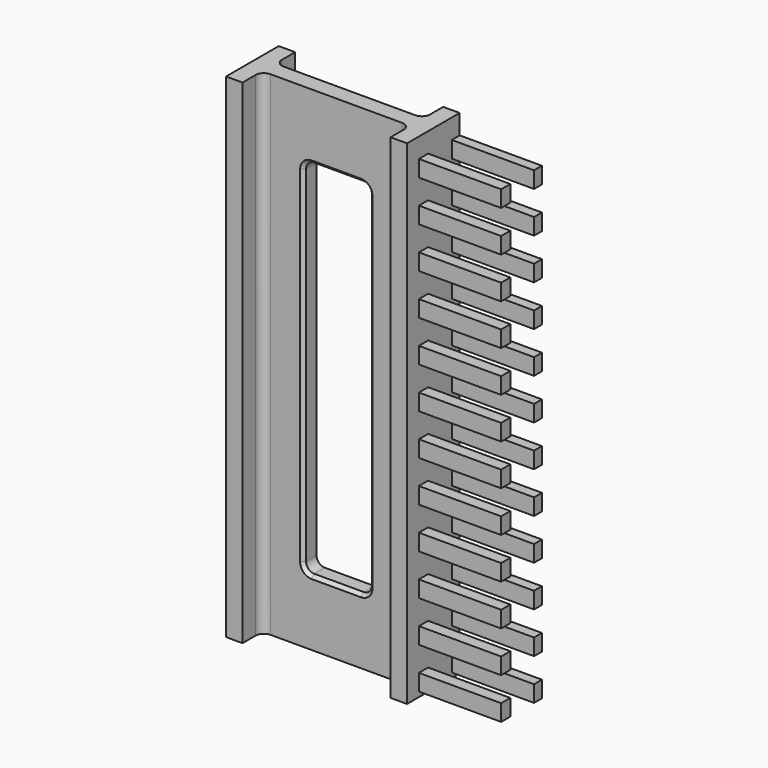
from build123d import *

# Parameters (mm, degrees)
F1_DEPTH = 300
F3_DEPTH = 25
F4_SIZE  = 2
F5_W     = 7
F5_H     = 10
F5_W_2   = 6
F6_DEPTH = 50


with BuildPart() as f1:
    # F0 (on Top) → F1 (new body)
    with BuildSketch(Plane.XY):
        with BuildLine():
            Line((-40, -5), (0, -5))
            Line((0, -5), (40, -5))
            ThreePointArc((40, -5), (43.535534, -6.464466), (45, -10))
            Line((45, -10), (45, -20))
            Line((45, -20), (55, -20))
            Line((55, -20), (55, 20))
            Line((55, 20), (45, 20))
            Line((45, 20), (45, 10))
            ThreePointArc((45, 10), (43.535534, 6.464466), (40, 5))
            Line((40, 5), (0, 5))
            Line((0, 5), (-40, 5))
            ThreePointArc((-40, 5), (-43.535534, 6.464466), (-45, 10))
            Line((-45, 10), (-45, 20))
            Line((-45, 20), (-55, 20))
            Line((-55, 20), (-55, -20))
            Line((-55, -20), (-45, -20))
            Line((-45, -20), (-45, -10))
            ThreePointArc((-45, -10), (-43.535534, -6.464466), (-40, -5))
        make_face()
    extrude(amount=F1_DEPTH)

    # F2 (on face) → F3 (cut)
    with BuildSketch(Plane(origin=(0, 5, 0), x_dir=(-1, 0, 0), z_dir=(0, 1, 0))):
        with BuildLine():
            ThreePointArc((-20, 45), (-18.535534, 41.464466), (-15, 40))
            Line((-15, 40), (15, 40))
            ThreePointArc((15, 40), (18.535534, 41.464466), (20, 45))
            Line((20, 45), (20, 255))
            ThreePointArc((20, 255), (18.535534, 258.535534), (15, 260))
            Line((15, 260), (-15, 260))
            ThreePointArc((-15, 260), (-18.535534, 258.535534), (-20, 255))
            Line((-20, 255), (-20, 45))
        make_face()
    extrude(amount=-F3_DEPTH, mode=Mode.SUBTRACT)

    # F4
    f4_edges = [f1.edges().sort_by_distance(p)[0] for p in [
        (0, -5, 260),
    ]]
    chamfer(f4_edges, length=F4_SIZE)

    # F5 (on face) → F6 (join)
    with BuildSketch(Plane.YZ.offset(55)):
        with Locations((-7.5, 283)):
            Rectangle(F5_W, F5_H)
        with Locations((17, 283)):
            Rectangle(F5_W_2, F5_H)
        with Locations((-7.5, 258)):
            Rectangle(F5_W, F5_H)
        with Locations((17, 258)):
            Rectangle(F5_W_2, F5_H)
        with Locations((-7.5, 233)):
            Rectangle(F5_W, F5_H)
        with Locations((17, 233)):
            Rectangle(F5_W_2, F5_H)
        with Locations((-7.5, 208)):
            Rectangle(F5_W, F5_H)
        with Locations((17, 208)):
            Rectangle(F5_W_2, F5_H)
        with Locations((-7.5, 183)):
            Rectangle(F5_W, F5_H)
        with Locations((17, 183)):
            Rectangle(F5_W_2, F5_H)
        with Locations((-7.5, 158)):
            Rectangle(F5_W, F5_H)
        with Locations((17, 158)):
            Rectangle(F5_W_2, F5_H)
        with Locations((-7.5, 133)):
            Rectangle(F5_W, F5_H)
        with Locations((17, 133)):
            Rectangle(F5_W_2, F5_H)
        with Locations((-7.5, 108)):
            Rectangle(F5_W, F5_H)
        with Locations((17, 108)):
            Rectangle(F5_W_2, F5_H)
        with Locations((-7.5, 83)):
            Rectangle(F5_W, F5_H)
        with Locations((17, 83)):
            Rectangle(F5_W_2, F5_H)
        with Locations((-7.5, 58)):
            Rectangle(F5_W, F5_H)
        with Locations((17, 58)):
            Rectangle(F5_W_2, F5_H)
        with Locations((-7.5, 33)):
            Rectangle(F5_W, F5_H)
        with Locations((17, 33)):
            Rectangle(F5_W_2, F5_H)
        with Locations((-7.5, 8)):
            Rectangle(F5_W, F5_H)
        with Locations((17, 8)):
            Rectangle(F5_W_2, F5_H)
    extrude(amount=F6_DEPTH)


solid = f1.part
